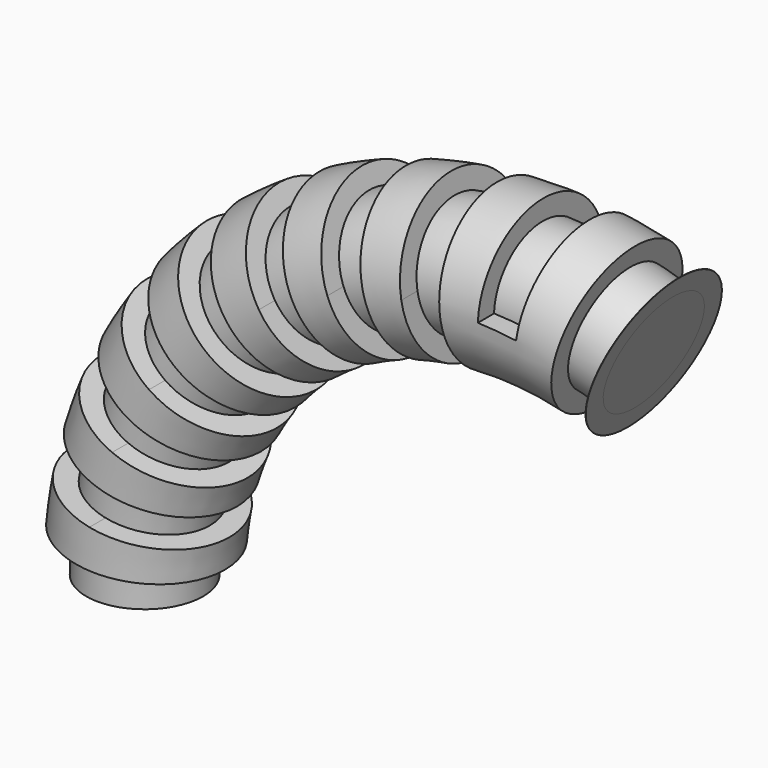
from build123d import *

# Parameters (mm, degrees)
F0_R          = 18.7807108441
F0_R_2        = 13.9576988463
F3_DEPTH      = 18.7817109441
F3_DEPTH_BACK = 18.7817109441


with BuildPart() as f2:
    # F2: sweep along a path in F1
    with BuildLine(Plane.XZ) as f2_path:
        ThreePointArc((121.4502462579, 86.2094858202), (38.4620599977, 74.4685130802), (0, 0))
    # F0 (on Top) → F2 (sweep)
    with BuildSketch(Plane.XY):
        Circle(F0_R)
        Circle(F0_R_2, mode=Mode.SUBTRACT)
        Circle(F0_R_2)
    sweep(path=f2_path.line)

    # F1 (on Front) → F3 (cut, two sides)
    with BuildSketch(Plane.XZ) as f3_sk:
        with BuildLine():
            Line((-92.5067969976, 0), (0, 0))
            ThreePointArc((0, 0), (0.1149298392, 4.5801868331), (0.4594300767, 9.1488452665))
            Line((0.4594300767, 9.1488452665), (-91.5819779292, 18.416353187))
            ThreePointArc((-91.5819779292, 18.416353187), (-92.2754466524, 9.2197797563), (-92.5067969976, 0))
        make_face()
        with BuildLine():
            ThreePointArc((1.8330976474, 18.2056373648), (2.8588074385, 22.6709749465), (4.1071812463, 27.0792493402))
            Line((4.1071812463, 27.0792493402), (-84.2391634075, 54.5097228514))
            ThreePointArc((-84.2391634075, 54.5097228514), (-86.7521027222, 45.6359977183), (-88.8168259994, 36.6474060864))
            Line((-88.8168259994, 36.6474060864), (1.8330976474, 18.2056373648))
        make_face()
        with BuildLine():
            Line((-77.8950493373, 71.8235777567), (7.258799669, 35.6803973463))
            ThreePointArc((7.258799669, 35.6803973463), (9.1541116124, 39.8516217387), (11.2562421963, 43.9225389944))
            Line((11.2562421963, 43.9225389944), (-69.8483165219, 88.4147635496))
            ThreePointArc((-69.8483165219, 88.4147635496), (-74.0798428131, 80.2201282933), (-77.8950493373, 71.8235777567))
        make_face()
        with BuildLine():
            ThreePointArc((16.0592876597, 51.7227441188), (18.7481132007, 55.4323987529), (21.6196091347, 59.002529198))
            Line((21.6196091347, 59.002529198), (-48.9871673622, 118.7703349421))
            ThreePointArc((-48.9871673622, 118.7703349421), (-54.7674032012, 111.5837686284), (-60.1799289769, 104.1163442756))
            Line((-60.1799289769, 104.1163442756), (16.0592876597, 51.7227441188))
        make_face()
        with BuildLine():
            ThreePointArc((27.881260194, 65.6886470341), (31.2556546485, 68.7878053649), (34.7812378244, 71.7138237457))
            Line((34.7812378244, 71.7138237457), (-22.4932005933, 144.3577924884))
            ThreePointArc((-22.4932005933, 144.3577924884), (-29.5900945799, 138.4678045869), (-36.382650171, 132.2292911199))
            Line((-36.382650171, 132.2292911199), (27.881260194, 65.6886470341))
        make_face()
        with BuildLine():
            Line((-7.4585704559, 155.0338053982), (42.250116346, 77.0174356597))
            ThreePointArc((42.250116346, 77.0174356597), (46.1746124113, 79.3816799212), (50.2127459547, 81.5461192897))
            Line((50.2127459547, 81.5461192897), (8.5699659221, 164.1499107396))
            ThreePointArc((8.5699659221, 164.1499107396), (0.4413233026, 159.79295872), (-7.4585704559, 155.0338053982))
        make_face()
        with BuildLine():
            Line((25.4311338101, 171.6143847645), (58.5890088584, 85.2543082648))
            ThreePointArc((58.5890088584, 85.2543082648), (62.9060550377, 86.7887243035), (67.2946254002, 88.104691806))
            Line((67.2946254002, 88.104691806), (42.955280768, 177.3521219854))
            ThreePointArc((42.955280768, 177.3521219854), (34.1212192632, 174.7031185753), (25.4311338101, 171.6143847645))
        make_face()
        with BuildLine():
            ThreePointArc((76.2420020577, 90.0685901371), (80.7782876698, 90.7115778038), (85.3411127844, 91.1262430525))
            Line((85.3411127844, 91.1262430525), (79.2823226809, 183.4344147018))
            ThreePointArc((79.2823226809, 183.4344147018), (70.0974915474, 182.5997058996), (60.9660836421, 181.3053908664))
            Line((60.9660836421, 181.3053908664), (76.2420020577, 90.0685901371))
        make_face()
        with BuildLine():
            ThreePointArc((94.5004048273, 91.2670087389), (99.0738176785, 90.9927548674), (103.6277199055, 90.4894708508))
            Line((103.6277199055, 90.4894708508), (116.0927184768, 182.1526112147))
            ThreePointArc((116.0927184768, 182.1526112147), (106.9258488503, 183.1657069587), (97.7197049178, 183.7177718384))
            Line((97.7197049178, 183.7177718384), (94.5004048273, 91.2670087389))
        make_face()
        with BuildLine():
            ThreePointArc((112.6312214818, 88.8014527609), (117.0581588809, 87.6209674545), (121.4203187961, 86.2199388434))
            Line((121.4203187961, 86.2199388434), (151.9086904096, 173.5581703752))
            ThreePointArc((151.9086904096, 173.5581703752), (143.1277923493, 176.3783992649), (134.2164991418, 178.7546810469))
            Line((134.2164991418, 178.7546810469), (112.6312214818, 88.8014527608))
        make_face()
        with BuildLine():
            Line((104.0351846172, 36.4177751407), (121.4203187961, 86.2199388434))
            ThreePointArc((121.4203187961, 86.2199388434), (117.0581588809, 87.6209674545), (112.6312214818, 88.8014527609))
            Line((112.6312214818, 88.8014527608), (100.3228255739, 37.5081608987))
            ThreePointArc((100.3228255739, 37.5081608987), (102.1926855265, 37.0095448126), (104.0351846172, 36.4177751407))
        make_face()
        with BuildLine():
            Line((88.7959669906, 38.4901111439), (85.3411127844, 91.1262430525))
            ThreePointArc((85.3411127844, 91.1262430525), (80.7782876698, 90.7115778038), (76.2420020577, 90.0685901371))
            Line((76.2420020577, 90.0685901371), (84.9526637724, 38.0433772843))
            ThreePointArc((84.9526637724, 38.0433772843), (86.8687104736, 38.3149638869), (88.7959669906, 38.4901111439))
        make_face()
        with BuildLine():
            Line((58.5890088584, 85.2543082648), (77.4963520942, 36.0099098864))
            ThreePointArc((77.4963520942, 36.0099098864), (79.3197959419, 36.6580200454), (81.1734503378, 37.2138614115))
            Line((81.1734503378, 37.2138614115), (67.2946254002, 88.104691806))
            ThreePointArc((67.2946254002, 88.104691806), (62.9060550377, 86.7887243035), (58.5890088584, 85.2543082648))
        make_face()
        with BuildLine():
            Line((42.250116346, 77.0174356597), (70.5950932724, 32.5308007799))
            ThreePointArc((70.5950932724, 32.5308007799), (72.2527309043, 33.5294156832), (73.9583669943, 34.4436365384))
            Line((73.9583669943, 34.4436365384), (50.2127459547, 81.5461192897))
            ThreePointArc((50.2127459547, 81.5461192897), (46.1746124113, 79.3816799212), (42.250116346, 77.0174356597))
        make_face()
        with BuildLine():
            ThreePointArc((64.5259429181, 27.7457211067), (65.9512273724, 29.0547506969), (67.4403712649, 30.2906490388))
            Line((67.4403712649, 30.2906490388), (34.7812378244, 71.7138237457))
            ThreePointArc((34.7812378244, 71.7138237457), (31.2556546485, 68.7878053649), (27.881260194, 65.6886470341))
            Line((27.881260194, 65.6886470341), (64.5259429181, 27.7457211067))
        make_face()
        with BuildLine():
            ThreePointArc((59.5325510966, 21.846771063), (60.6682633838, 23.4136634794), (61.8811324098, 24.9216233494))
            Line((61.8811324098, 24.9216233494), (21.6196091347, 59.002529198))
            ThreePointArc((21.6196091347, 59.002529198), (18.7481132007, 55.4323987529), (16.0592876597, 51.7227441188))
            Line((16.0592876597, 51.7227441188), (59.5325510966, 21.846771063))
        make_face()
        with BuildLine():
            Line((7.258799669, 35.6803973463), (55.8153808333, 15.0707679096))
            ThreePointArc((55.8153808333, 15.0707679096), (56.6159270306, 16.8326192171), (57.5038297588, 18.5521025666))
            Line((57.5038297588, 18.5521025666), (11.2562421963, 43.9225389944))
            ThreePointArc((11.2562421963, 43.9225389944), (9.1541116124, 39.8516217387), (7.258799669, 35.6803973463))
        make_face()
        with BuildLine():
            ThreePointArc((53.5236603931, 7.6897387859), (53.9569020427, 9.5758182956), (54.4841930293, 11.4377953253))
            Line((54.4841930293, 11.4377953253), (4.1071812463, 27.0792493402))
            ThreePointArc((4.1071812463, 27.0792493402), (2.8588074385, 22.6709749465), (1.8330976474, 18.2056373648))
            Line((1.8330976474, 18.2056373648), (53.5236603931, 7.6897387859))
        make_face()
        with BuildLine():
            Line((0, 0), (52.7493924125, 0))
            ThreePointArc((52.7493924125, 0), (52.7979367411, 1.9345897994), (52.94344754, 3.8643102069))
            Line((52.94344754, 3.8643102069), (0.4594300767, 9.1488452665))
            ThreePointArc((0.4594300767, 9.1488452665), (0.1149298392, 4.5801868331), (0, 0))
        make_face()
    extrude(amount=-F3_DEPTH, mode=Mode.SUBTRACT)
    extrude(f3_sk.sketch, amount=F3_DEPTH_BACK, mode=Mode.SUBTRACT)


with BuildPart() as f4:
    # F4: sweep along a path in F1
    with BuildLine(Plane.XZ) as f4_path:
        ThreePointArc((121.4502462579, 86.2094858202), (38.4620599977, 74.4685130802), (0, 0))
    # F0 (on Top) → F4 (sweep)
    with BuildSketch(Plane.XY):
        Circle(F0_R_2)
    sweep(path=f4_path.line)


solid = Compound([f2.part, f4.part])
